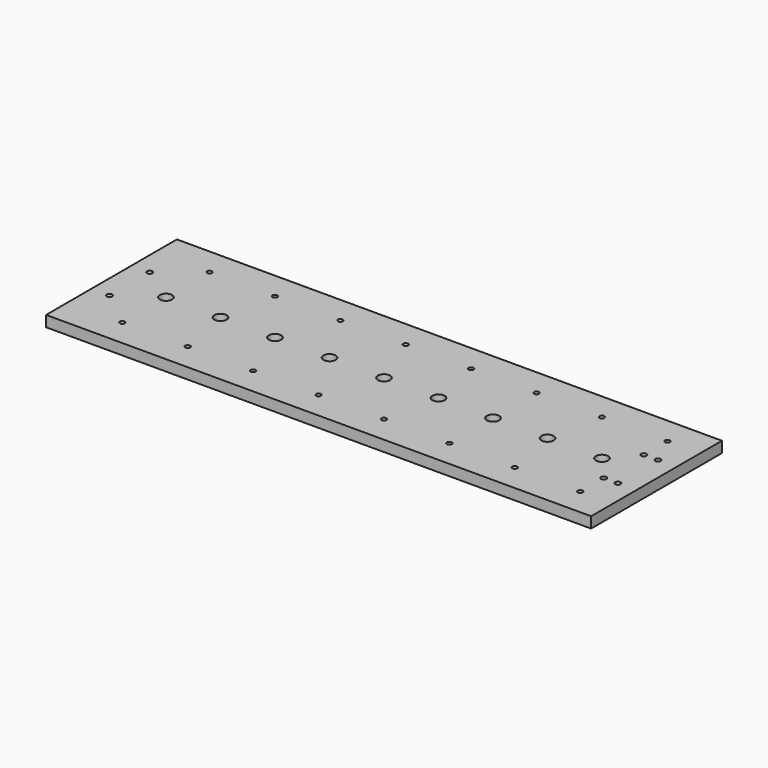
from build123d import *

# Parameters (mm, degrees)
F0_W           = 500
F0_H           = 150
F1_DEPTH       = 10
F2_D           = 4.5
F4_D           = 5.4
F4_CBORE_D     = 11.25
F4_CBORE_DEPTH = 6
F6_D           = 5


with BuildPart() as f1:
    # F0 (on Top) → F1 (new body)
    with BuildSketch(Plane.XY):
        Rectangle(F0_W, F0_H)
    extrude(amount=F1_DEPTH)

    # F2 (through all)
    with Locations(Plane(origin=(0, 0, 0), x_dir=(1, 0, 0), z_dir=(0, 0, -1))):
        with Locations((219.9761271477, -50), (159.9761271477, -50), (99.9761271477, -50), (39.9761271477, -50), (-20.0238728523, -50), (-80.0238728523, -50), (-140.0238728523, -50), (-200.0238728523, -50), (-200.0238728523, 50), (-140.0238728523, 50), (-80.0238728523, 50), (-20.0238728523, 50), (39.9761271477, 50), (99.9761271477, 50), (159.9761271477, 50), (219.9761271477, 50)):
            Hole(F2_D / 2)

    # F4 (through all)
    with Locations(Plane.XY.offset(10)):
        with Locations((200, 0), (150, 0), (100, 0), (50, 0), (0, 0), (-50, 0), (-100, 0), (-150, 0), (-200, 0)):
            CounterBoreHole(F4_D / 2, F4_CBORE_D / 2, F4_CBORE_DEPTH)

    # F6 (through all)
    with Locations(Plane.XY.offset(10)):
        with Locations((-233.4, 23), (-233.4, -23), (220, 23), (233, 23), (220, -23), (233, -23)):
            Hole(F6_D / 2)


solid = f1.part
